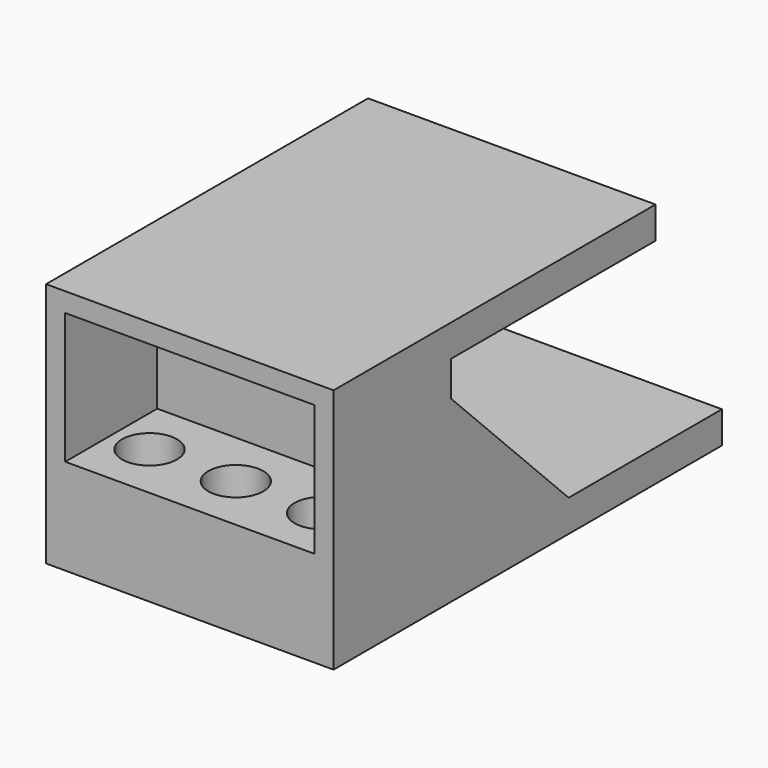
from build123d import *

# Parameters (mm, degrees)
F1_DEPTH  = 22.5
F3_DEPTH  = 45
F4_R      = 4.3
F5_DEPTH  = 38.501
F6_W      = 39
F6_H      = 20.5
F7_DEPTH  = 18
F8_DEPTH  = 18
F9_R      = 4.3
F10_DEPTH = 3


with BuildPart() as f1:
    # F0 (on Right) → F1 (new body, symmetric)
    with BuildSketch(Plane.YZ):
        Polygon((0, 0), (40, 0), (40, 5), (-5, 5), (-5, -7.571068), (20.928932, -33.5), (53, -33.5), (53, -28.5), (23, -28.5), (0, -5.5), align=None)
    extrude(amount=F1_DEPTH, both=True)

    # F2 (on face) → F3 (join, through all)
    with BuildSketch(Plane.YZ.offset(22.5)):
        Polygon((-5, -7.571068), (-5, 5), (-23, 5), (-23, -33.5), (20.928932, -33.5), align=None)
    extrude(amount=-F3_DEPTH)

    # F4 (on face) → F5 (cut, through all)
    with BuildSketch(Plane.XY.offset(5)):
        with Locations((0, -14)):
            Circle(F4_R)
        with Locations((13.5, -14)):
            Circle(F4_R)
        with Locations((-13.5, -14)):
            Circle(F4_R)
    extrude(amount=-F5_DEPTH, mode=Mode.SUBTRACT)

    # F6 (on face) → F7 (cut)
    with BuildSketch(Plane.XZ.offset(23)):
        with Locations((0, -8.25)):
            Rectangle(F6_W, F6_H)
    extrude(amount=-F7_DEPTH, mode=Mode.SUBTRACT)

    # F6 (on face) → F8 (cut)
    with BuildSketch(Plane.XZ.offset(23)):
        with Locations((0, -8.25)):
            Rectangle(F6_W, F6_H)
    extrude(amount=-F8_DEPTH, mode=Mode.SUBTRACT)

    # F9 (on face) → F10 (join, through all)
    with BuildSketch(Plane.XY.offset(5)):
        with Locations((-13.5, -14)):
            Circle(F9_R)
        with Locations((0, -14)):
            Circle(F9_R)
        with Locations((13.5, -14)):
            Circle(F9_R)
    extrude(amount=-F10_DEPTH)


solid = f1.part
